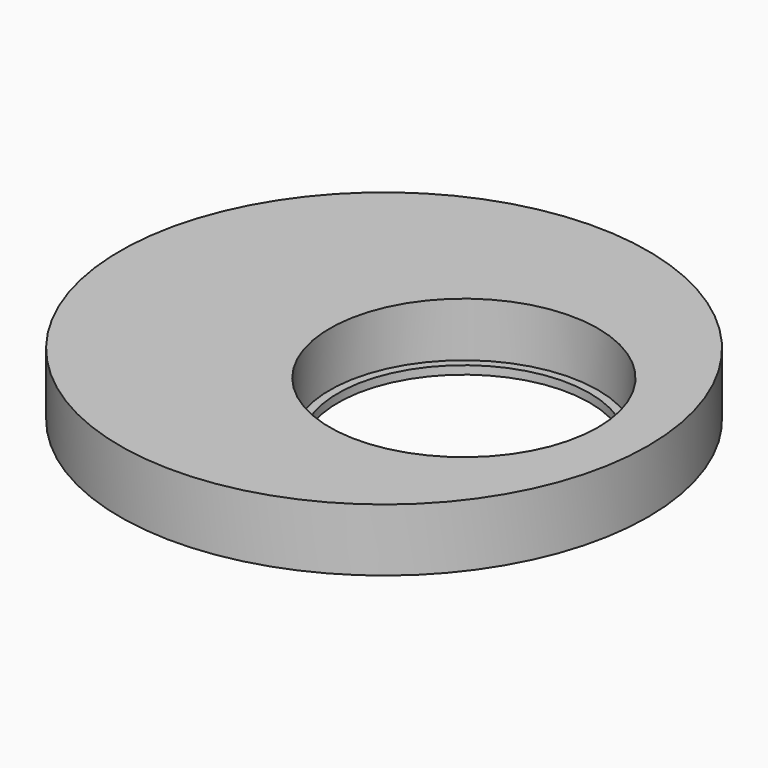
from build123d import *

# Parameters (mm, degrees)
F0_R     = 25.3
F0_R_2   = 12.85
F1_DEPTH = 6
F0_R_3   = 12.05
F2_DEPTH = 0.8


with BuildPart() as f1:
    # F0 (on Top) → F1 (new body)
    with BuildSketch(Plane.XY):
        Circle(F0_R)
        with Locations((7.65, 0)):
            Circle(F0_R_2, mode=Mode.SUBTRACT)
    extrude(amount=F1_DEPTH)

    # F0 (on Top) → F2 (join)
    with BuildSketch(Plane.XY):
        with Locations((7.65, 0)):
            Circle(F0_R_2)
        with Locations((7.65, 0)):
            Circle(F0_R_3, mode=Mode.SUBTRACT)
    extrude(amount=F2_DEPTH)


solid = f1.part
